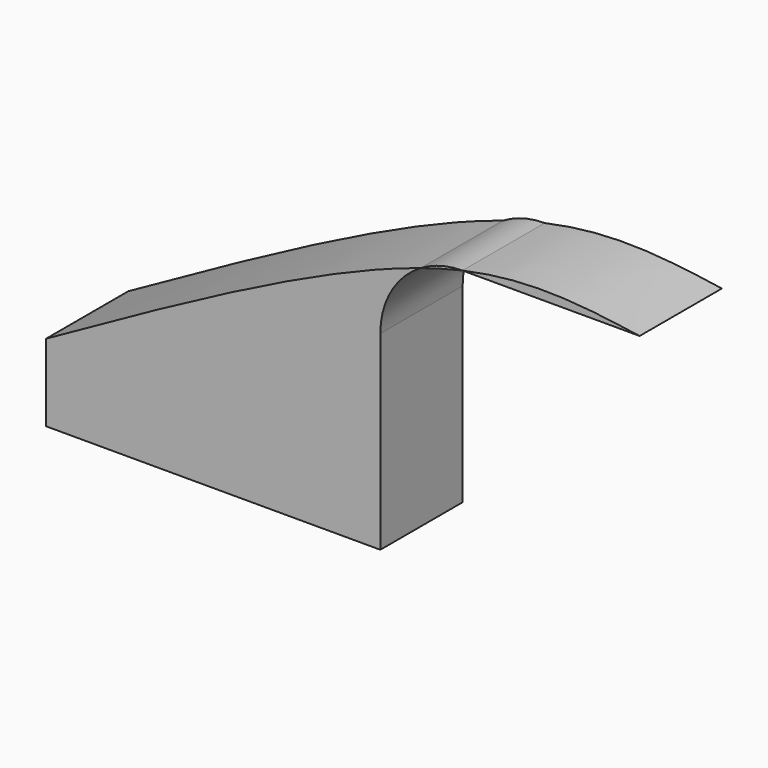
from build123d import *

# Parameters (mm, degrees)
F0_W     = 82.55
F0_H     = 19.05
F1_DEPTH = 25.4


with BuildPart() as f1:
    # F0 (on Front) → F1 (new body)
    with BuildSketch(Plane.XZ):
        Rectangle(F0_W, F0_H)
        with BuildLine():
            add(Edge.make_bspline(
                [(-41.275, 9.525), (-8.1705508322, 28.056225928), (24.9338983356, 46.587451856), (51.2323798296, 54.9580537814)],
                knots=[0, 0, 0, 0, 0.5432491603, 0.5432491603, 0.5432491603, 0.5432491603], degree=3))
            Line((-41.275, 9.525), (41.275, 9.525))
            Line((41.275, 9.525), (41.275, 37.5034841796))
            ThreePointArc((41.275, 37.5034841796), (43.9393956885, 47.5510138891), (51.2323798296, 54.9580537814))
        make_face()
    extrude(amount=F1_DEPTH)


with BuildPart() as f1b:
    # F0 (on Front) → F1, piece 2 (new body)
    with BuildSketch(Plane.XZ):
        with BuildLine():
            add(Edge.make_bspline(
                [(61.5519915361, 57.7804757157), (78.7005453199, 61.6042213205), (92.0071664175, 59.6923485181), (105.3137875151, 57.7804757157)],
                knots=[0.6170164009, 0.6170164009, 0.6170164009, 0.6170164009, 1, 1, 1, 1], degree=3))
            Line((61.5519915361, 57.7804757157), (105.3137875151, 57.7804757157))
        make_face()
    extrude(amount=F1_DEPTH)


with BuildPart() as f1c:
    # F0 (on Front) → F1, piece 3 (new body)
    with BuildSketch(Plane.XZ):
        with BuildLine():
            ThreePointArc((61.5519915361, 57.7804757157), (56.2026819697, 57.0621465295), (51.2323798296, 54.9580537814))
            add(Edge.make_bspline(
                [(51.2323798296, 54.9580537814), (54.8034233841, 56.0946891441), (58.2489741323, 57.0439763911), (61.5519915361, 57.7804757157)],
                knots=[0.5432491603, 0.5432491603, 0.5432491603, 0.5432491603, 0.6170164009, 0.6170164009, 0.6170164009, 0.6170164009], degree=3))
        make_face()
    extrude(amount=F1_DEPTH)


solid = Compound([f1.part, f1b.part, f1c.part])
